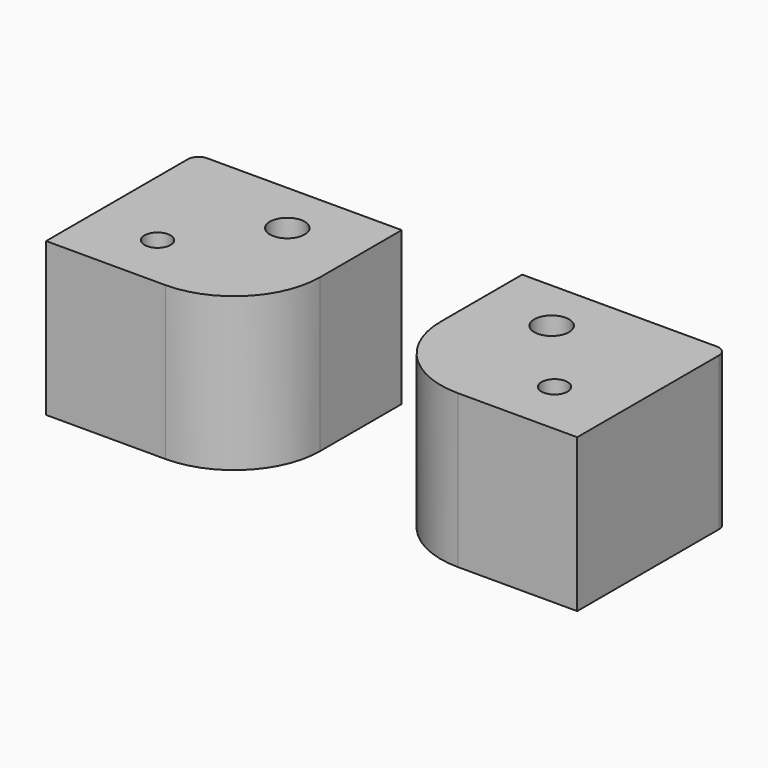
from build123d import *

# Parameters (mm, degrees)
F0_R     = 7.701776
F0_R_2   = 10.288769
F1_DEPTH = 90.424


with BuildPart() as f1:
    # F0 (on Top) → F1 (new body)
    with BuildSketch(Plane.XY):
        with BuildLine():
            ThreePointArc((131.784136, -4.682061), (146.663111, -40.603086), (182.584136, -55.482061))
            Line((182.584136, -55.482061), (253.034493, -55.482061))
            Line((253.034493, -55.482061), (253.034493, 49.132061))
            ThreePointArc((253.034493, 49.132061), (251.174621, 53.622189), (246.684493, 55.482061))
            Line((246.684493, 55.482061), (131.784136, 55.482061))
            Line((131.784136, 55.482061), (131.784136, -4.682061))
        make_face()
        with Locations((213.42616, -22.698617)):
            Circle(F0_R, mode=Mode.SUBTRACT)
        with Locations((174.259361, 24.11049)):
            Circle(F0_R_2, mode=Mode.SUBTRACT)
        with BuildLine():
            Line((-60.625178, -55.482061), (9.825178, -55.482061))
            ThreePointArc((9.825178, -55.482061), (45.746203, -40.603086), (60.625178, -4.682061))
            Line((60.625178, -4.682061), (60.625178, 55.482061))
            Line((60.625178, 55.482061), (-54.275178, 55.482061))
            ThreePointArc((-54.275178, 55.482061), (-58.765307, 53.622189), (-60.625178, 49.132061))
            Line((-60.625178, 49.132061), (-60.625178, -55.482061))
        make_face()
        with Locations((-21.016845, -22.698617)):
            Circle(F0_R, mode=Mode.SUBTRACT)
        with Locations((18.149953, 24.11049)):
            Circle(F0_R_2, mode=Mode.SUBTRACT)
    extrude(amount=F1_DEPTH)


solid = f1.part
